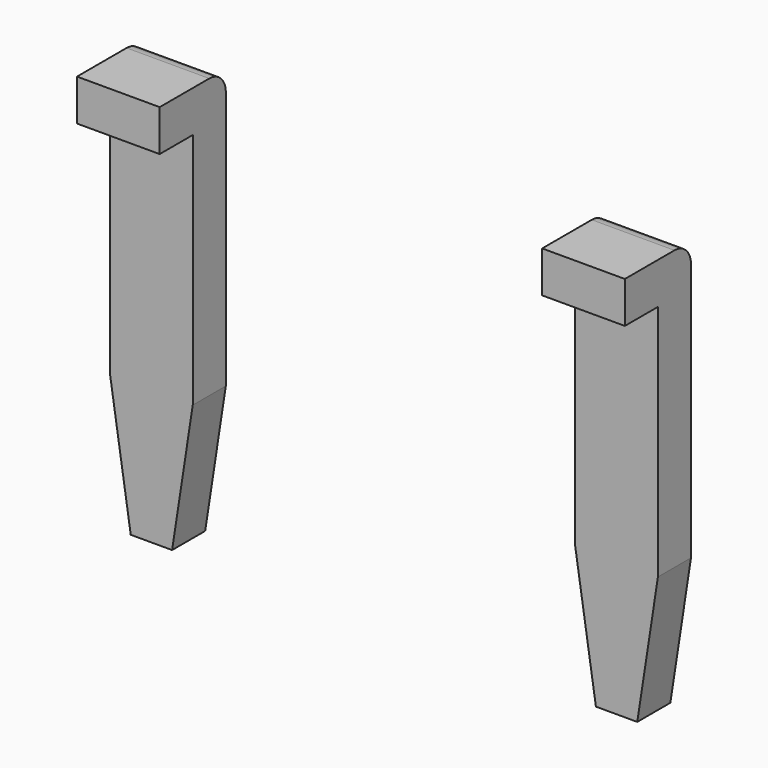
from build123d import *

# Parameters (mm, degrees)
BOX004_W                  = 0.8
BOX004_H                  = 0.4
BOX004_DEPTH              = 0.4
BOX003_W                  = 0.8
BOX003_H                  = 0.4
BOX003_DEPTH              = 4
CHAMFER001_1_SIZE2        = 0.2
CHAMFER001_1_SIZE         = 1.3
CHAMFER001_2_SIZE2        = 0.2
CHAMFER001_2_SIZE         = 1.3
FILLET001_R               = 0.2
FUSION001_PLACEMENT_ANGLE = 180
ARRAY001_X_COUNT          = 2
ARRAY001_X_PITCH          = 4.5


with BuildPart() as cube004:
    # Box004 → Box004 (new body)
    with BuildSketch(Plane(origin=(-2.65, -3.05, 0.6), x_dir=(1, 0, 0), z_dir=(0, 0, 1))):
        with Locations((0.4, 0.2)):
            Rectangle(BOX004_W, BOX004_H)
    extrude(amount=BOX004_DEPTH)


with BuildPart() as array001:
    # Box003 → Box003 (new body)
    with BuildSketch(Plane(origin=(-2.65, -3.45, -3), x_dir=(1, 0, 0), z_dir=(0, 0, 1))):
        with Locations((0.4, 0.2)):
            Rectangle(BOX003_W, BOX003_H)
    extrude(amount=BOX003_DEPTH)

    # Chamfer001 1
    chamfer001_1_edges = [array001.edges().sort_by_distance(p)[0] for p in [
        (-1.85, -3.25, -3),
    ]]
    chamfer001_1_side = array001.faces().sort_by_distance((-1.85, -3.25, -1))[0]
    chamfer(chamfer001_1_edges, length=CHAMFER001_1_SIZE, length2=CHAMFER001_1_SIZE2, reference=chamfer001_1_side)

    # Chamfer001 2
    chamfer001_2_edges = [array001.edges().sort_by_distance(p)[0] for p in [
        (-2.65, -3.25, -3),
    ]]
    chamfer001_2_side = array001.faces().sort_by_distance((-2.65, -3.25, -1))[0]
    chamfer(chamfer001_2_edges, length=CHAMFER001_2_SIZE, length2=CHAMFER001_2_SIZE2, reference=chamfer001_2_side)

    # Fillet001
    fillet001_edges = [array001.edges().sort_by_distance(p)[0] for p in [
        (-2.25, -3.45, 1),
    ]]
    fillet(fillet001_edges, radius=FILLET001_R)

    # Fusion001: union Cube004
    add(cube004.part)


with BuildPart() as array001_1:
    # Fusion001 placement: moved
    add(array001.part.moved(Location((-4.5, 0, 0))).rotate(Axis((-4.5, 0, 0), (0, 0, 1)), FUSION001_PLACEMENT_ANGLE))

    # Array001 X: Array001 ×2


with BuildPart() as array001_2:
    add(array001_1.part)
    with Locations(*[(i * ARRAY001_X_PITCH, 0, 0) for i in range(1, ARRAY001_X_COUNT)]):
        add(array001_1.part)


solid = array001_2.part
